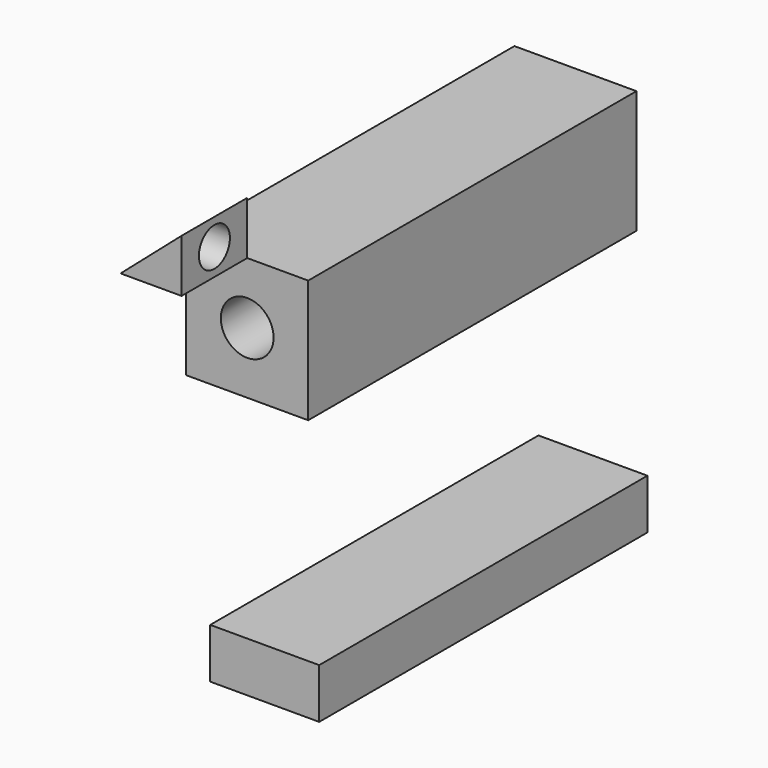
from build123d import *

# Parameters (mm, degrees)
F0_W     = 33.7372906506
F0_H     = 15.4758244753
F1_DEPTH = 127
F0_W_2   = 37.7610065043
F0_H_2   = 38.0705222487
F2_R     = 8.1683633369
F3_DEPTH = 127.001
F5_DEPTH = 25.4
F6_R     = 5.9928653271
F8_DEPTH = 25.4


with BuildPart() as f1:
    # F0 (on Front) → F1 (new body)
    with BuildSketch(Plane.XZ):
        with Locations((-32.9635012895, -57.7248185873)):
            Rectangle(F0_W, F0_H)
    extrude(amount=-F1_DEPTH)


with BuildPart() as f1b:
    # F0 (on Front) → F1, piece 2 (new body)
    with BuildSketch(Plane.XZ):
        with Locations((-38.3800398558, 34.6658416092)):
            Rectangle(F0_W_2, F0_H_2)
    extrude(amount=-F1_DEPTH)

    # F2 (on face) → F3 (cut, through all)
    with BuildSketch(Plane.XZ):
        with Locations((-38.3800398558, 34.6658416092)):
            Circle(F2_R)
    extrude(amount=-F3_DEPTH, mode=Mode.SUBTRACT)


with BuildPart() as f5:
    # F4 (on face) → F5 (new body)
    with BuildSketch(Plane.XZ):
        Polygon((-57.260543108, 53.7011027336), (-38.3800398558, 53.7011027336), (-38.3800398558, 70.1054781675), align=None)
    extrude(amount=F5_DEPTH)

    # F6 (on face) → F8 (cut)
    with BuildSketch(Plane.YZ.offset(-38.3800398558)):
        with Locations((-12.7, 61.9032904506)):
            Circle(F6_R)
    extrude(amount=-F8_DEPTH, mode=Mode.SUBTRACT)


solid = Compound([f1.part, f1b.part, f5.part])
